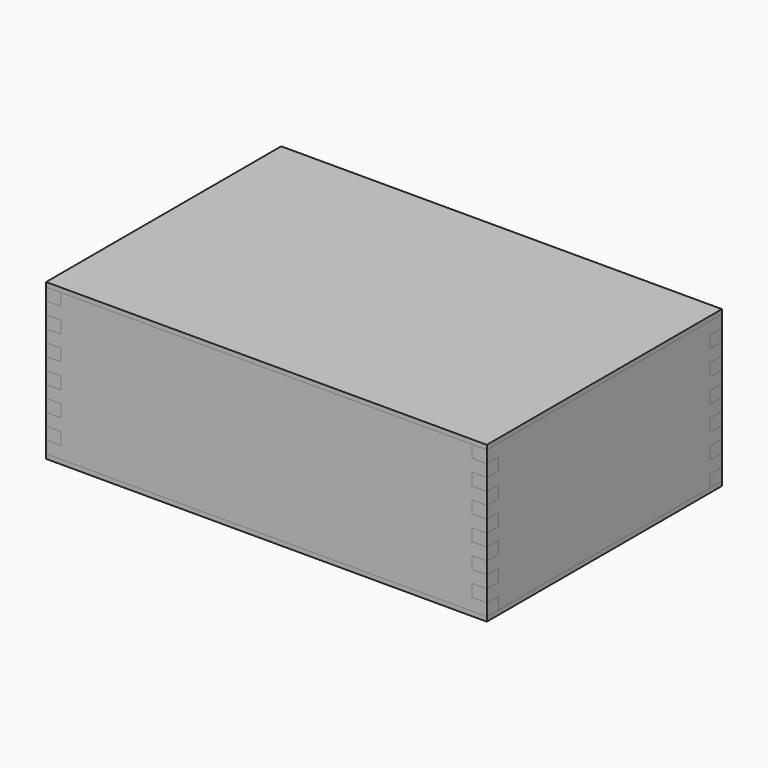
from build123d import *

# Parameters (mm, degrees)
BOX_W            = 300
BOX_H            = 200
BOX_DEPTH        = 3
BOX003_W         = 10
BOX003_H         = 10
BOX003_DEPTH     = 8.333333
ARRAY001_Z_COUNT = 6
ARRAY001_Z_PITCH = 16.666667
BOX002_W         = 10
BOX002_H         = 10
BOX002_DEPTH     = 8.333333
ARRAY_Z_COUNT    = 6
ARRAY_Z_PITCH    = 16.666667
BOX001_W         = 10
BOX001_H         = 200
BOX001_DEPTH     = 100
BOX006_W         = 10
BOX006_H         = 10
BOX006_DEPTH     = 8.333333
ARRAY003_Z_COUNT = 6
ARRAY003_Z_PITCH = 16.666667
BOX005_W         = 10
BOX005_H         = 10
BOX005_DEPTH     = 8.333333
ARRAY002_Z_COUNT = 6
ARRAY002_Z_PITCH = 16.666667
BOX004_W         = 300
BOX004_H         = 10
BOX004_DEPTH     = 100
BOX007_W         = 300
BOX007_H         = 200
BOX007_DEPTH     = 3
BOX010_W         = 10
BOX010_H         = 10
BOX010_DEPTH     = 8.333333
ARRAY005_Z_COUNT = 6
ARRAY005_Z_PITCH = 16.666667
BOX009_W         = 10
BOX009_H         = 10
BOX009_DEPTH     = 8.333333
ARRAY004_Z_COUNT = 6
ARRAY004_Z_PITCH = 16.666667
BOX008_W         = 10
BOX008_H         = 200
BOX008_DEPTH     = 100
BOX013_W         = 10
BOX013_H         = 10
BOX013_DEPTH     = 8.333333
ARRAY007_Z_COUNT = 6
ARRAY007_Z_PITCH = 16.666667
BOX012_W         = 10
BOX012_H         = 10
BOX012_DEPTH     = 8.333333
ARRAY006_Z_COUNT = 6
ARRAY006_Z_PITCH = 16.666667
BOX011_W         = 300
BOX011_H         = 10
BOX011_DEPTH     = 100


with BuildPart() as bottom:
    # Box → Box (new body)
    with BuildSketch(Plane.XY):
        with Locations((150, 100)):
            Rectangle(BOX_W, BOX_H)
    extrude(amount=BOX_DEPTH)


with BuildPart() as array001:
    # Box003 → Box003 (new body)
    with BuildSketch(Plane.XY.offset(3)):
        with Locations((5, 5)):
            Rectangle(BOX003_W, BOX003_H)
    extrude(amount=BOX003_DEPTH)

    # Array001 Z: Array001 ×6


with BuildPart() as array001_1:
    add(array001.part)
    with Locations(*[(0, 0, i * ARRAY001_Z_PITCH) for i in range(1, ARRAY001_Z_COUNT)]):
        add(array001.part)


with BuildPart() as array001_2:
    # Array001 placement: moved
    add(array001_1.part.moved(Location((0, 190, 0))))


with BuildPart() as fusion:
    # Box002 → Box002 (new body)
    with BuildSketch(Plane.XY.offset(3)):
        with Locations((5, 5)):
            Rectangle(BOX002_W, BOX002_H)
    extrude(amount=BOX002_DEPTH)

    # Array Z: Fusion ×6


with BuildPart() as fusion_1:
    add(fusion.part)
    with Locations(*[(0, 0, i * ARRAY_Z_PITCH) for i in range(1, ARRAY_Z_COUNT)]):
        add(fusion.part)

    # Fusion: union Array001
    add(array001_2.part)


with BuildPart() as side_left_cut:
    # Box001 → Box001 (new body)
    with BuildSketch(Plane.XY.offset(3)):
        with Locations((5, 100)):
            Rectangle(BOX001_W, BOX001_H)
    extrude(amount=BOX001_DEPTH)

    # Cut: cut Fusion
    add(fusion_1.part, mode=Mode.SUBTRACT)


with BuildPart() as array003:
    # Box006 → Box006 (new body)
    with BuildSketch(Plane.XY.offset(3)):
        with Locations((5, 5)):
            Rectangle(BOX006_W, BOX006_H)
    extrude(amount=BOX006_DEPTH)

    # Array003 Z: Array003 ×6


with BuildPart() as array003_1:
    add(array003.part)
    with Locations(*[(0, 0, i * ARRAY003_Z_PITCH) for i in range(1, ARRAY003_Z_COUNT)]):
        add(array003.part)


with BuildPart() as array003_2:
    # Array003 placement: moved
    add(array003_1.part.moved(Location((290, 0, 8.333333))))


with BuildPart() as fusion001:
    # Box005 → Box005 (new body)
    with BuildSketch(Plane.XY.offset(3)):
        with Locations((5, 5)):
            Rectangle(BOX005_W, BOX005_H)
    extrude(amount=BOX005_DEPTH)

    # Array002 Z: Fusion001 ×6


with BuildPart() as fusion001_1:
    add(fusion001.part)
    with Locations(*[(0, 0, i * ARRAY002_Z_PITCH) for i in range(1, ARRAY002_Z_COUNT)]):
        add(fusion001.part)


with BuildPart() as fusion001_2:
    # Array002 placement: moved
    add(fusion001_1.part.moved(Location((0, 0, 8.333333))))

    # Fusion001: union Array003
    add(array003_2.part)


with BuildPart() as front_cut:
    # Box004 → Box004 (new body)
    with BuildSketch(Plane.XY.offset(3)):
        with Locations((150, 5)):
            Rectangle(BOX004_W, BOX004_H)
    extrude(amount=BOX004_DEPTH)

    # Cut001: cut Fusion001
    add(fusion001_2.part, mode=Mode.SUBTRACT)


with BuildPart() as top:
    # Box007 → Box007 (new body)
    with BuildSketch(Plane.XY.offset(103)):
        with Locations((150, 100)):
            Rectangle(BOX007_W, BOX007_H)
    extrude(amount=BOX007_DEPTH)


with BuildPart() as array005:
    # Box010 → Box010 (new body)
    with BuildSketch(Plane.XY.offset(3)):
        with Locations((5, 5)):
            Rectangle(BOX010_W, BOX010_H)
    extrude(amount=BOX010_DEPTH)

    # Array005 Z: Array005 ×6


with BuildPart() as array005_1:
    add(array005.part)
    with Locations(*[(0, 0, i * ARRAY005_Z_PITCH) for i in range(1, ARRAY005_Z_COUNT)]):
        add(array005.part)


with BuildPart() as array005_2:
    # Array005 placement: moved
    add(array005_1.part.moved(Location((0, 190, 0))))


with BuildPart() as fusion002:
    # Box009 → Box009 (new body)
    with BuildSketch(Plane.XY.offset(3)):
        with Locations((5, 5)):
            Rectangle(BOX009_W, BOX009_H)
    extrude(amount=BOX009_DEPTH)

    # Array004 Z: Fusion002 ×6


with BuildPart() as fusion002_1:
    add(fusion002.part)
    with Locations(*[(0, 0, i * ARRAY004_Z_PITCH) for i in range(1, ARRAY004_Z_COUNT)]):
        add(fusion002.part)

    # Fusion002: union Array005
    add(array005_2.part)


with BuildPart() as side_right_cut:
    # Box008 → Box008 (new body)
    with BuildSketch(Plane.XY.offset(3)):
        with Locations((5, 100)):
            Rectangle(BOX008_W, BOX008_H)
    extrude(amount=BOX008_DEPTH)

    # Cut002: cut Fusion002
    add(fusion002_1.part, mode=Mode.SUBTRACT)


with BuildPart() as side_right_cut_1:
    # Cut002 placement: moved
    add(side_right_cut.part.moved(Location((290, 0, 0))))


with BuildPart() as array007:
    # Box013 → Box013 (new body)
    with BuildSketch(Plane.XY.offset(3)):
        with Locations((5, 5)):
            Rectangle(BOX013_W, BOX013_H)
    extrude(amount=BOX013_DEPTH)

    # Array007 Z: Array007 ×6


with BuildPart() as array007_1:
    add(array007.part)
    with Locations(*[(0, 0, i * ARRAY007_Z_PITCH) for i in range(1, ARRAY007_Z_COUNT)]):
        add(array007.part)


with BuildPart() as array007_2:
    # Array007 placement: moved
    add(array007_1.part.moved(Location((290, 0, 8.333333))))


with BuildPart() as fusion003:
    # Box012 → Box012 (new body)
    with BuildSketch(Plane.XY.offset(3)):
        with Locations((5, 5)):
            Rectangle(BOX012_W, BOX012_H)
    extrude(amount=BOX012_DEPTH)

    # Array006 Z: Fusion003 ×6


with BuildPart() as fusion003_1:
    add(fusion003.part)
    with Locations(*[(0, 0, i * ARRAY006_Z_PITCH) for i in range(1, ARRAY006_Z_COUNT)]):
        add(fusion003.part)


with BuildPart() as fusion003_2:
    # Array006 placement: moved
    add(fusion003_1.part.moved(Location((0, 0, 8.333333))))

    # Fusion003: union Array007
    add(array007_2.part)


with BuildPart() as back_cut:
    # Box011 → Box011 (new body)
    with BuildSketch(Plane.XY.offset(3)):
        with Locations((150, 5)):
            Rectangle(BOX011_W, BOX011_H)
    extrude(amount=BOX011_DEPTH)

    # Cut003: cut Fusion003
    add(fusion003_2.part, mode=Mode.SUBTRACT)


with BuildPart() as back_cut_1:
    # Cut003 placement: moved
    add(back_cut.part.moved(Location((0, 190, 0))))


solid = Compound([bottom.part, side_left_cut.part, front_cut.part, top.part, side_right_cut_1.part, back_cut_1.part])
